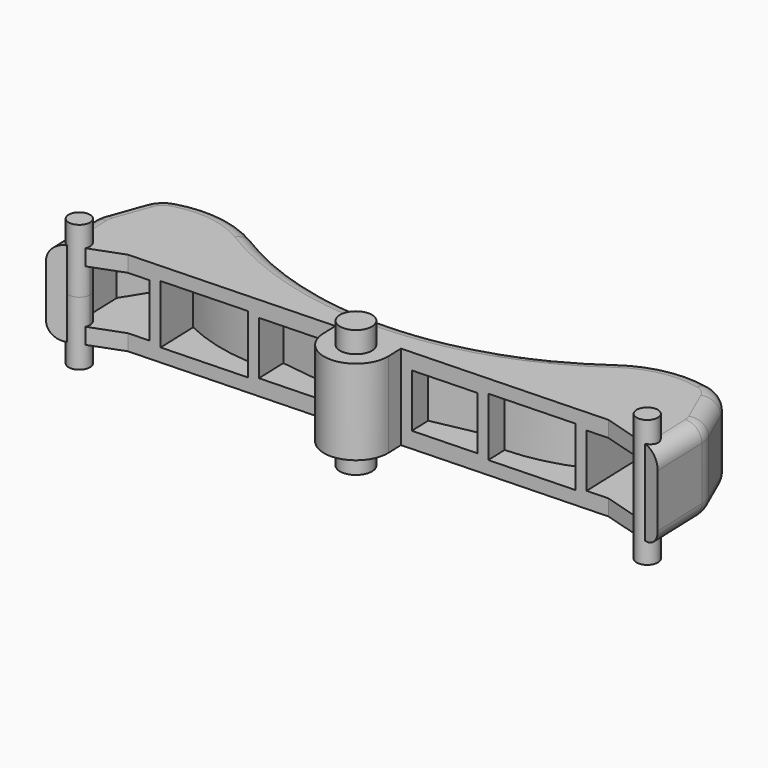
from build123d import *

# Parameters (mm, degrees)
PAD103_DEPTH            = 4
POCKET044_DEPTH         = 2.75
POCKET045_DEPTH         = 2.5
SKETCH192_R             = 1.5
PAD104_DEPTH            = 6
FILLET006_R             = 3
FILLET007_R             = 1.5
SKETCH221_R             = 1
PAD116_DEPTH            = 6
BODY154_ROLL_ANGLE      = -90
BODY154_PLACEMENT_ANGLE = 2


with BuildPart() as part:
    # Sketch188 → Pad103 (new body, symmetric)
    with BuildSketch(Plane.XZ):
        with BuildLine():
            Line((-22, 0), (-3, 0))
            Line((-3, 0), (-3, -1.5))
            ThreePointArc((-3, -1.5), (0, -4.5), (3, -1.5))
            Line((3, 0), (3, -1.5))
            Line((3, 0), (22, 0))
            Line((22, 0), (28, -2))
            Line((28, -2), (28, 4))
            Line((28, 4), (26, 9))
            ThreePointArc((26, 9), (21.180343, 9.814691), (16.562583, 8.211851))
            ThreePointArc((-16.562583, 8.211851), (0, 3.225464), (16.562583, 8.211851))
            ThreePointArc((-16.562583, 8.211851), (-21.180343, 9.814691), (-26, 9))
            Line((-28, 4), (-26, 9))
            Line((-28, -2), (-28, 4))
            Line((-22, 0), (-28, -2))
        make_face()
    extrude(amount=PAD103_DEPTH, both=True)

    # Sketch190 → Pocket044 (cut, symmetric)
    with BuildSketch(Plane.XZ):
        with BuildLine():
            ThreePointArc((-19, 4), (-15.123106, 2.507577), (-11, 2))
            Line((-11, 0), (-11, 2))
            Line((-11, 0), (-19, 0))
            Line((-19, 0), (-19, 4))
        make_face()
        with BuildLine():
            ThreePointArc((11, 2), (15.123106, 2.507577), (19, 4))
            Line((19, 0), (19, 4))
            Line((11, 0), (19, 0))
            Line((11, 0), (11, 2))
        make_face()
    extrude(amount=POCKET044_DEPTH, both=True, mode=Mode.SUBTRACT)

    # Sketch191 → Pocket045 (cut, symmetric)
    with BuildSketch(Plane.XZ):
        Polygon((-26, -2), (-26, 4), (-24, 7), (-20, 7), (-20, -2), align=None)
        Polygon((-10, -2), (-10, 3), (-4, 2), (-4, -2), align=None)
        Polygon((10, -2), (10, 3), (4, 2), (4, -2), align=None)
        Polygon((26, -2), (26, 4), (24, 7), (20, 7), (20, -2), align=None)
    extrude(amount=POCKET045_DEPTH, both=True, mode=Mode.SUBTRACT)

    # Sketch192 → Pad104 (join, symmetric)
    with BuildSketch(Plane.XZ):
        with Locations((0, -1.5)):
            Circle(SKETCH192_R)
    extrude(amount=PAD104_DEPTH, both=True)

    # Fillet006
    fillet006_edges = [part.edges().sort_by_distance(p)[0] for p in [
        (-28, 0, 4),
        (-26, 0, 9),
        (26, 0, 9),
        (28, 0, 4),
    ]]
    fillet(fillet006_edges, radius=FILLET006_R)

    # Fillet007
    fillet007_edges = [part.edges().sort_by_distance(p)[0] for p in [
        (-28, 4, 0.711126),
        (-27.143844, 4, 6.140391),
        (-25.699112, 4, 8.881973),
        (-20.375073, 4, 9.713888),
        (0, 4, 3.225464),
        (20.375073, 4, 9.713888),
        (25.699112, 4, 8.881973),
        (27.143844, 4, 6.140391),
        (28, 4, 0.711126),
        (-27.945869, 4, 3.989575),
        (27.945869, 4, 3.989575),
        (-28, -4, 0.711126),
        (-27.945869, -4, 3.989575),
        (-27.143844, -4, 6.140391),
        (-25.699112, -4, 8.881973),
        (-20.375073, -4, 9.713888),
        (0, -4, 3.225464),
        (20.375073, -4, 9.713888),
        (25.699112, -4, 8.881973),
        (27.143844, -4, 6.140391),
        (27.945869, -4, 3.989575),
        (28, -4, 0.711126),
    ]]
    fillet(fillet007_edges, radius=FILLET007_R)

    # Sketch221 → Pad116 (join, symmetric)
    with BuildSketch(Plane.XZ):
        with Locations((-26, -0.6)):
            Circle(SKETCH221_R)
        with Locations((26, -0.6)):
            Circle(SKETCH221_R)
    extrude(amount=PAD116_DEPTH, both=True)


with BuildPart() as part_1:
    # Body147 placement: moved
    add(part.part.moved(Location((0, 0, -1))))


with BuildPart() as part_2:
    # Body154 roll: moved
    add(part_1.part.rotate(Axis((0, 0, 0), (1, 0, 0)), BODY154_ROLL_ANGLE))


with BuildPart() as part_3:
    # Body154 placement: moved
    add(part_2.part.moved(Location((-3, 18, 0))).rotate(Axis((-3, 18, 0), (0, 0, 1)), BODY154_PLACEMENT_ANGLE))


solid = part_3.part
